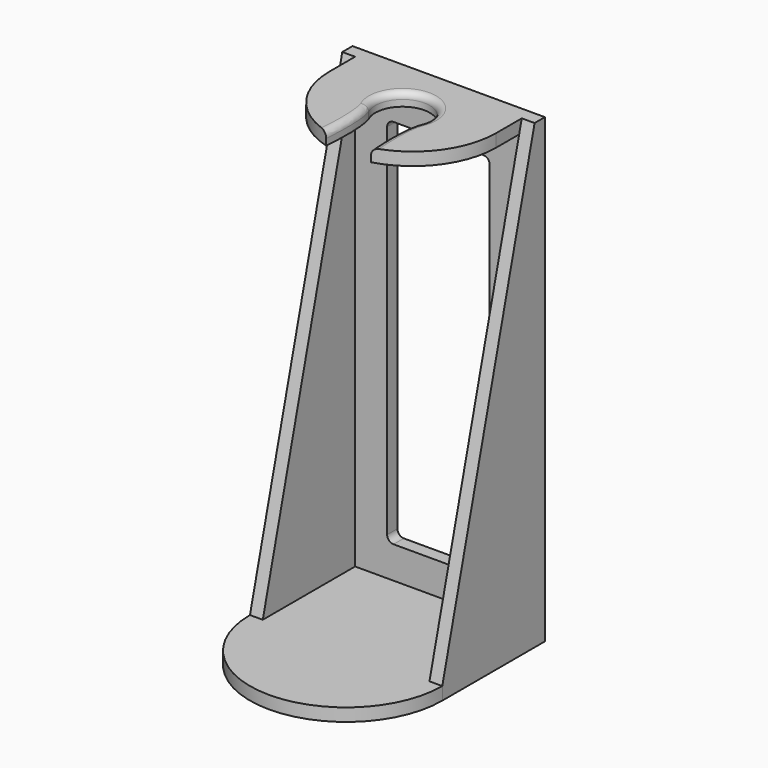
from build123d import *

# Parameters (mm, degrees)
PAD_DEPTH       = 2
SKETCH001_W     = 30
SKETCH001_H     = 70
PAD001_DEPTH    = 2
PAD002_DEPTH    = 2
PAD003_DEPTH    = 2
POCKET_DEPTH    = 2
SKETCH005_W     = 16
SKETCH005_H     = 58
POCKET001_DEPTH = 2
FILLET_R        = 1
FILLET001_R     = 1


with BuildPart() as part:
    # Sketch → Pad (new body)
    with BuildSketch(Plane.XY):
        with BuildLine():
            Line((-15, -5), (-15, 15))
            Line((-15, 15), (15, 15))
            Line((15, 15), (15, -5))
            ThreePointArc((-15, -5), (0, -20), (15, -5))
        make_face()
    extrude(amount=PAD_DEPTH)

    # Sketch001 (on Face2 of Pad) → Pad001 (join)
    with BuildSketch(Plane(origin=(0, 15, 0), x_dir=(-1, 0, 0), z_dir=(0, 1, 0))):
        with Locations((0, 37)):
            Rectangle(SKETCH001_W, SKETCH001_H)
    extrude(amount=-PAD001_DEPTH)

    # Sketch002 (on Face11 of Pad001) → Pad002 (join)
    with BuildSketch(Plane.YZ.offset(15)):
        Polygon((13, 72), (13, 2), (-5, 2), align=None)
    pad002 = extrude(amount=-PAD002_DEPTH)

    # Mirrored: Pad002 across YZ
    add(pad002.mirror(Plane.YZ))

    # Sketch003 (on Face11 of Mirrored) → Pad003 (join)
    with BuildSketch(Plane.XY.offset(72)):
        with BuildLine():
            Line((-13, 13), (13, 13))
            Line((13, 13), (13, 8))
            ThreePointArc((-13, 8), (0, -5), (13, 8))
            Line((-13, 13), (-13, 8))
        make_face()
    extrude(amount=-PAD003_DEPTH)

    # Sketch004 (on Face19 of Pad003) → Pocket (cut)
    with BuildSketch(Plane.XY.offset(72)):
        with BuildLine():
            ThreePointArc((3.832963, 4.164), (0, 10.25), (-3.832963, 4.164))
            add(Edge.make_bspline(
                [(-3.832963, 4.164), (-3, 1.5), (-3.5, -4.519984)],
                knots=[0, 0, 0, 1, 1, 1], degree=2))
            ThreePointArc((-3.5, -4.519984), (0, -5), (3.5, -4.519984))
            add(Edge.make_bspline(
                [(3.832963, 4.164), (3, 1.5), (3.5, -4.519984)],
                knots=[0, 0, 0, 1, 1, 1], degree=2))
        make_face()
    extrude(amount=-POCKET_DEPTH, mode=Mode.SUBTRACT)

    # Sketch005 (on Face17 of Pocket) → Pocket001 (cut)
    with BuildSketch(Plane.XZ.offset(-13)):
        with Locations((0, 36)):
            Rectangle(SKETCH005_W, SKETCH005_H)
    extrude(amount=-POCKET001_DEPTH, mode=Mode.SUBTRACT)

    # Fillet
    fillet_edges = [part.edges().sort_by_distance(p)[0] for p in [
        (-3.31397, -0.158011, 72),
        (0, 10.25, 72),
        (3.31397, -0.158011, 72),
    ]]
    fillet(fillet_edges, radius=FILLET_R)

    # Fillet001
    fillet001_edges = [part.edges().sort_by_distance(p)[0] for p in [
        (-8, 14, 7),
        (8, 14, 7),
        (8, 14, 65),
        (-8, 14, 65),
    ]]
    fillet(fillet001_edges, radius=FILLET001_R)


solid = part.part
